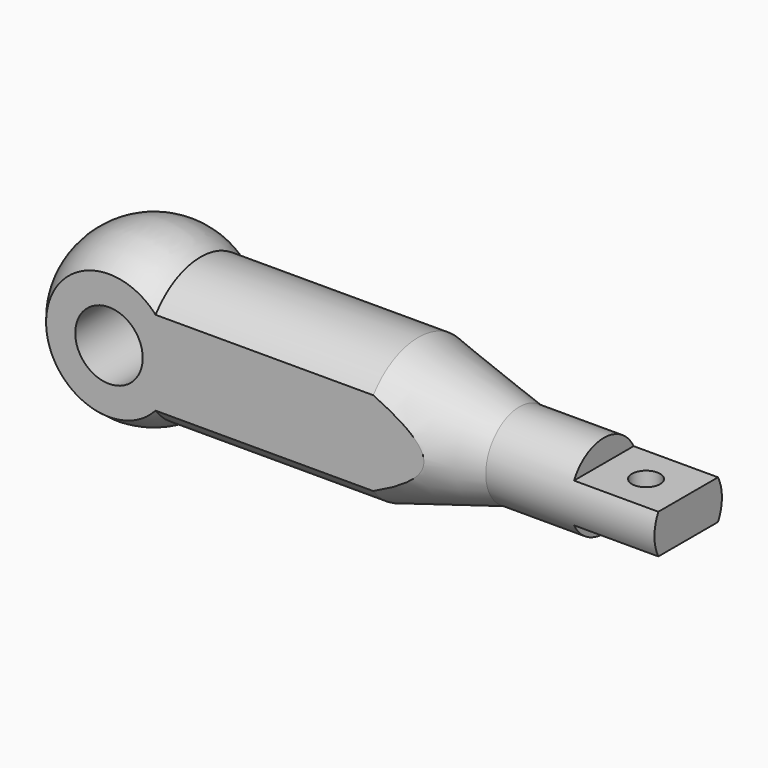
from build123d import *

# Parameters (mm, degrees)
F2_W      = 15
F2_H      = 4
F3_DEPTH  = 15.001
F4_DEPTH  = 15.001
F5_R      = 2.5
F6_DEPTH  = 18.501
F8_DEPTH  = 110.001
F9_R      = 6
F10_DEPTH = 20.001


with BuildPart() as f1:
    # F0 (on Front) → F1 (revolve)
    with BuildSketch(Plane.XZ):
        with BuildLine():
            ThreePointArc((8.291562, 12.5), (-7.093186, 13.21691), (-15, 0))
            Line((-15, 0), (95, 0))
            Line((95, 0), (95, 7.5))
            Line((95, 7.5), (65, 7.5))
            Line((65, 7.5), (47, 12.5))
            Line((47, 12.5), (8.291562, 12.5))
        make_face()
    revolve(axis=Axis((42.169949, 0, 0), (-1, 0, 0)))

    # F2 (on Front) → F3 (cut, through all)
    with BuildSketch(Plane.XZ):
        with Locations((87.5, -5.5)):
            Rectangle(F2_W, F2_H)
        with Locations((87.5, 5.5)):
            Rectangle(F2_W, F2_H)
    extrude(amount=-F3_DEPTH, mode=Mode.SUBTRACT)

    # F2 (on Front) → F4 (cut, through all)
    with BuildSketch(Plane.XZ):
        with Locations((87.5, -5.5)):
            Rectangle(F2_W, F2_H)
        with Locations((87.5, 5.5)):
            Rectangle(F2_W, F2_H)
    extrude(amount=F4_DEPTH, mode=Mode.SUBTRACT)

    # F5 (on face) → F6 (cut, through all)
    with BuildSketch(Plane.XY.offset(3.5)):
        with Locations((87.5, 0)):
            Circle(F5_R)
    extrude(amount=-F6_DEPTH, mode=Mode.SUBTRACT)

    # F7 (on face) → F8 (cut, through all)
    with BuildSketch(Plane.YZ.offset(95)):
        with BuildLine():
            Line((-10, -11.18034), (-10, 11.18034))
            ThreePointArc((-10, 11.18034), (-15, 0), (-10, -11.18034))
        make_face()
        with BuildLine():
            ThreePointArc((10, -11.18034), (15, 0), (10, 11.18034))
            Line((10, 11.18034), (10, -11.18034))
        make_face()
    extrude(amount=-F8_DEPTH, mode=Mode.SUBTRACT)

    # F9 (on face) → F10 (cut, through all)
    with BuildSketch(Plane.XZ.offset(10)):
        Circle(F9_R)
    extrude(amount=-F10_DEPTH, mode=Mode.SUBTRACT)


solid = f1.part
